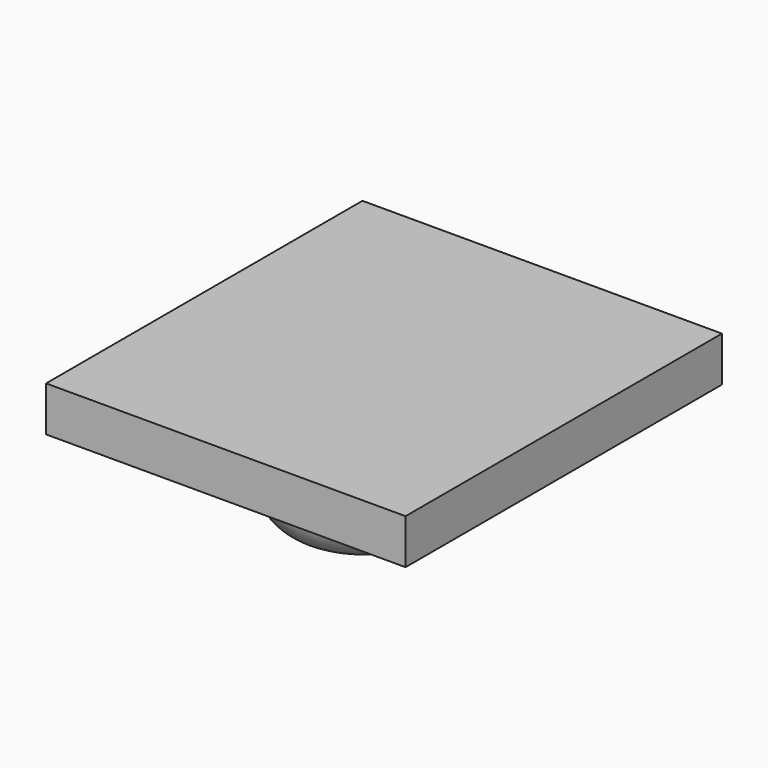
from build123d import *

# Parameters (mm, degrees)
SKETCH033_W  = 8
SKETCH033_H  = 8.8
PAD011_DEPTH = 1
PAD012_DEPTH = 2
FILLET017_R  = 1


with BuildPart() as part:
    # Sketch033 → Pad011 (new body)
    with BuildSketch(Plane.XY):
        Rectangle(SKETCH033_W, SKETCH033_H)
    extrude(amount=PAD011_DEPTH)

    # Sketch034 (on Face5 of Pad011) → Pad012 (join)
    with BuildSketch(Plane(origin=(0, 0, 0), x_dir=(1, 0, 0), z_dir=(0, 0, -1))):
        with BuildLine():
            ThreePointArc((1.9, 0.6), (0, 2.5), (-1.9, 0.6))
            Line((-1.9, 0.6), (-1.9, -4.4))
            Line((-1.9, -4.4), (1.9, -4.4))
            Line((1.9, 0.6), (1.9, -4.4))
        make_face()
    extrude(amount=PAD012_DEPTH)

    # Fillet017
    fillet017_edges = [part.edges().sort_by_distance(p)[0] for p in [
        (1.9, 1.9, -2),
        (0, -2.5, -2),
        (-1.9, 1.9, -2),
        (0, 4.4, -2),
    ]]
    fillet(fillet017_edges, radius=FILLET017_R)


solid = part.part
